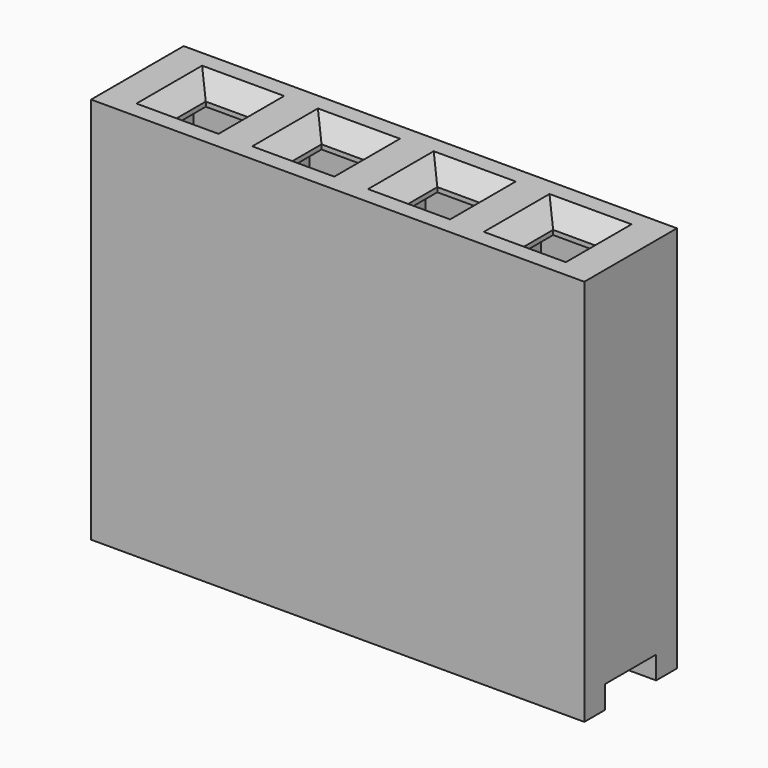
from build123d import *

# Parameters (mm, degrees)
SKETCH002_W      = 1
SKETCH002_H      = 1
EXTRUDE002_DEPTH = 9
SKETCH003_W      = 4
SKETCH003_H      = 1.4
EXTRUDE003_DEPTH = 0.5
SKETCH001_W      = 1.85
SKETCH001_H      = 1.4
EXTRUDE001_DEPTH = 8
SKETCH_W         = 3.2
SKETCH_H         = 2.54
EXTRUDE_DEPTH    = 8.5
CHAMFER_SIZE     = 0.4
ARRAY001_X_COUNT = 4
ARRAY001_X_PITCH = 2.54


with BuildPart() as extrude002:
    # Sketch002 → Extrude002 (new body)
    with BuildSketch(Plane.XY):
        Rectangle(SKETCH002_W, SKETCH002_H)
    extrude(amount=EXTRUDE002_DEPTH)


with BuildPart() as extrude003:
    # Sketch003 → Extrude003 (new body)
    with BuildSketch(Plane.XY):
        Rectangle(SKETCH003_W, SKETCH003_H)
    extrude(amount=EXTRUDE003_DEPTH)


with BuildPart() as fusion:
    # Sketch001 → Extrude001 (new body)
    with BuildSketch(Plane.XY):
        Rectangle(SKETCH001_W, SKETCH001_H)
    extrude(amount=EXTRUDE001_DEPTH)

    # Fusion: union Extrude002, Extrude003
    add(extrude002.part)
    add(extrude003.part)


with BuildPart() as body:
    # Sketch → Extrude (new body)
    with BuildSketch(Plane.XY):
        Rectangle(SKETCH_W, SKETCH_H)
    extrude(amount=EXTRUDE_DEPTH)

    # Cut001: cut Fusion
    add(fusion.part, mode=Mode.SUBTRACT)

    # Chamfer
    chamfer_edges = [body.edges().sort_by_distance(p)[0] for p in [
        (0.5, 0, 8.5),
        (0, 0.5, 8.5),
        (-0.5, 0, 8.5),
        (0, -0.5, 8.5),
    ]]
    chamfer(chamfer_edges, length=CHAMFER_SIZE)

    # Array001 X: body ×4


with BuildPart() as body_1:
    add(body.part)
    with Locations(*[(i * ARRAY001_X_PITCH, 0, 0) for i in range(1, ARRAY001_X_COUNT)]):
        add(body.part)


solid = body_1.part
